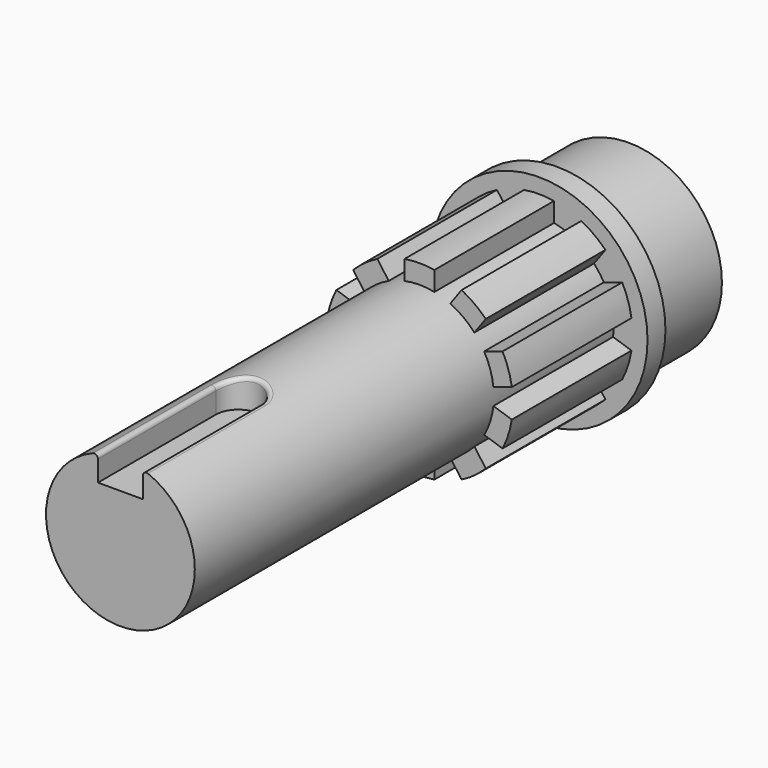
from build123d import *

# Parameters (mm, degrees)
F0_R      = 12.45
F1_DEPTH  = 12
F2_R      = 14.5
F3_DEPTH  = 3
F4_R      = 9.95
F5_DEPTH  = 70
F7_DEPTH  = 20
F10_DEPTH = 25
F11_R     = 0.5


with BuildPart() as f1:
    # F0 (on Front) → F1 (new body)
    with BuildSketch(Plane.XZ):
        Circle(F0_R)
    extrude(amount=-F1_DEPTH)

    # F2 (on Front) → F3 (join)
    with BuildSketch(Plane.XZ):
        Circle(F2_R)
    extrude(amount=F3_DEPTH)

    # F4 (on face) → F5 (join)
    with BuildSketch(Plane.XZ.offset(3)):
        Circle(F4_R)
    extrude(amount=F5_DEPTH)

    # F6 (on face) → F7 (join)
    with BuildSketch(Plane.XZ.offset(3)):
        with BuildLine():
            Line((2, 9.7469225913), (2, 12.3389626793))
            ThreePointArc((2, 12.3389626793), (0, 12.5), (-2, 12.3389626793))
            Line((-2, 12.3389626793), (-2, 9.7469225913))
            ThreePointArc((-2, 9.7469225913), (0, 9.95), (2, 9.7469225913))
        make_face()
        with BuildLine():
            Line((5.6346263027, 11.1580010051), (4.1110633656, 9.0609965238))
            ThreePointArc((4.1110633656, 9.0609965238), (5.8484632603, 8.049719094), (7.3471313431, 6.7098555146))
            Line((7.3471313431, 6.7098555146), (8.8706942802, 8.8068599959))
            ThreePointArc((8.8706942802, 8.8068599959), (7.3473156537, 10.1127124297), (5.6346263027, 11.1580010051))
        make_face()
        with BuildLine():
            Line((11.1170168717, 5.7150621934), (8.6518402555, 4.9140777561))
            ThreePointArc((8.6518402555, 4.9140777561), (9.4630123371, 3.074719094), (9.887908233, 1.109851691))
            Line((9.887908233, 1.109851691), (12.3530848492, 1.9108361283))
            ThreePointArc((12.3530848492, 1.9108361283), (11.8882064537, 3.8627124297), (11.1170168717, 5.7150621934))
        make_face()
        with BuildLine():
            Line((12.3530848492, -1.9108361283), (9.887908233, -1.109851691))
            ThreePointArc((9.887908233, -1.109851691), (9.4630123371, -3.074719094), (8.6518402555, -4.9140777561))
            Line((8.6518402555, -4.9140777561), (11.1170168717, -5.7150621934))
            ThreePointArc((11.1170168717, -5.7150621934), (11.8882064537, -3.8627124297), (12.3530848492, -1.9108361283))
        make_face()
        with BuildLine():
            Line((8.8706942802, -8.8068599959), (7.3471313431, -6.7098555146))
            ThreePointArc((7.3471313431, -6.7098555146), (5.8484632603, -8.049719094), (4.1110633656, -9.0609965238))
            Line((4.1110633656, -9.0609965238), (5.6346263027, -11.1580010051))
            ThreePointArc((5.6346263027, -11.1580010051), (7.3473156537, -10.1127124297), (8.8706942802, -8.8068599959))
        make_face()
        with BuildLine():
            ThreePointArc((2, -9.7469225913), (0, -9.95), (-2, -9.7469225913))
            Line((-2, -9.7469225913), (-2, -12.3389626793))
            ThreePointArc((-2, -12.3389626793), (0, -12.5), (2, -12.3389626793))
            Line((2, -12.3389626793), (2, -9.7469225913))
        make_face()
        with BuildLine():
            ThreePointArc((-4.1110633656, -9.0609965238), (-5.8484632603, -8.049719094), (-7.3471313431, -6.7098555146))
            Line((-7.3471313431, -6.7098555146), (-8.8706942802, -8.8068599959))
            ThreePointArc((-8.8706942802, -8.8068599959), (-7.3473156537, -10.1127124297), (-5.6346263027, -11.1580010051))
            Line((-5.6346263027, -11.1580010051), (-4.1110633656, -9.0609965238))
        make_face()
        with BuildLine():
            ThreePointArc((-8.6518402555, -4.9140777561), (-9.4630123371, -3.074719094), (-9.887908233, -1.109851691))
            Line((-9.887908233, -1.109851691), (-12.3530848492, -1.9108361283))
            ThreePointArc((-12.3530848492, -1.9108361283), (-11.8882064537, -3.8627124297), (-11.1170168717, -5.7150621934))
            Line((-11.1170168717, -5.7150621934), (-8.6518402555, -4.9140777561))
        make_face()
        with BuildLine():
            ThreePointArc((-9.887908233, 1.109851691), (-9.4630123371, 3.074719094), (-8.6518402555, 4.9140777561))
            Line((-8.6518402555, 4.9140777561), (-11.1170168717, 5.7150621934))
            ThreePointArc((-11.1170168717, 5.7150621934), (-11.8882064537, 3.8627124297), (-12.3530848492, 1.9108361283))
            Line((-12.3530848492, 1.9108361283), (-9.887908233, 1.109851691))
        make_face()
        with BuildLine():
            ThreePointArc((-7.3471313431, 6.7098555146), (-5.8484632603, 8.049719094), (-4.1110633656, 9.0609965238))
            Line((-4.1110633656, 9.0609965238), (-5.6346263027, 11.1580010051))
            ThreePointArc((-5.6346263027, 11.1580010051), (-7.3473156537, 10.1127124297), (-8.8706942802, 8.8068599959))
            Line((-8.8706942802, 8.8068599959), (-7.3471313431, 6.7098555146))
        make_face()
    extrude(amount=F7_DEPTH)

    # F9 (on offset) → F10 (cut)
    with BuildSketch(Plane.XY.offset(6)):
        with BuildLine():
            Line((-3, -53.2881170511), (-3, -79.6965509653))
            Line((-3, -79.6965509653), (3, -79.6965509653))
            Line((3, -79.6965509653), (3, -53.2881170511))
            ThreePointArc((3, -53.2881170511), (0, -50.2881170511), (-3, -53.2881170511))
        make_face()
    extrude(amount=F10_DEPTH, mode=Mode.SUBTRACT)

    # F11
    f11_edges = [f1.edges().sort_by_distance(p)[0] for p in [
        (-3, -63.144059, 9.486965),
        (3, -63.144059, 9.486965),
        (0, -50.288117, 9.95),
    ]]
    fillet(f11_edges, radius=F11_R)


solid = f1.part
